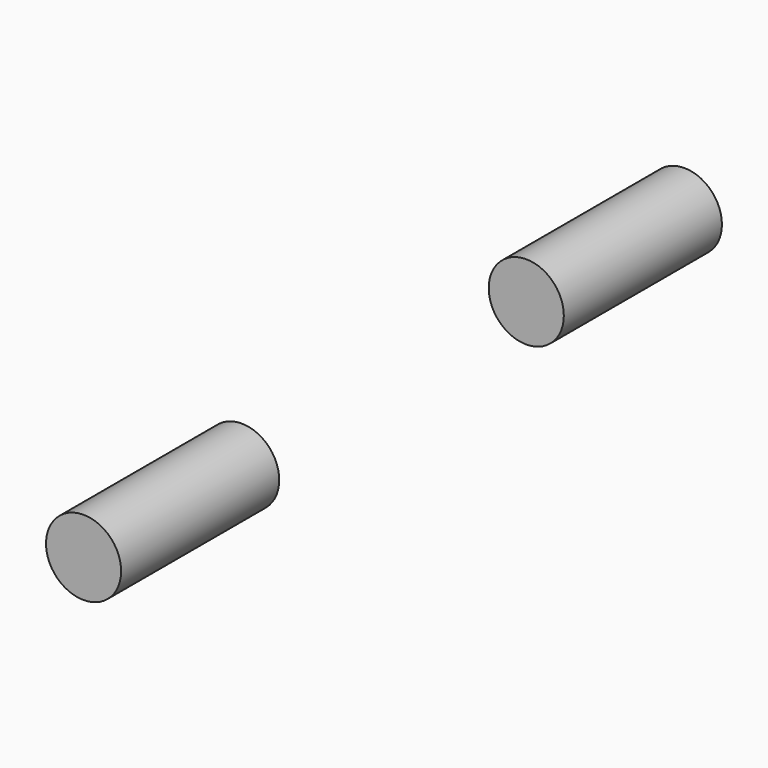
from build123d import *

# Parameters (mm, degrees)
CYLINDER014_R     = 1.9
CYLINDER014_DEPTH = 10
CYLINDER015_R     = 1.9
CYLINDER015_DEPTH = 10


with BuildPart() as cylinder014:
    # Cylinder014 → Cylinder014 (new body)
    with BuildSketch(Plane(origin=(22, -9, 25), x_dir=(1, 0, 0), z_dir=(0, -1, 0))):
        Circle(CYLINDER014_R)
    extrude(amount=CYLINDER014_DEPTH)


with BuildPart() as fusion004025002:
    # Cylinder015 → Cylinder015 (new body)
    with BuildSketch(Plane(origin=(22, 19, 25), x_dir=(1, 0, 0), z_dir=(0, -1, 0))):
        Circle(CYLINDER015_R)
    extrude(amount=CYLINDER015_DEPTH)

    # Fusion004025002: union Cylinder014
    add(cylinder014.part)


with BuildPart() as fusion004025002_1:
    # Fusion004025002 placement: moved
    add(fusion004025002.part.moved(Location((0, 0, -5))))


solid = fusion004025002_1.part
